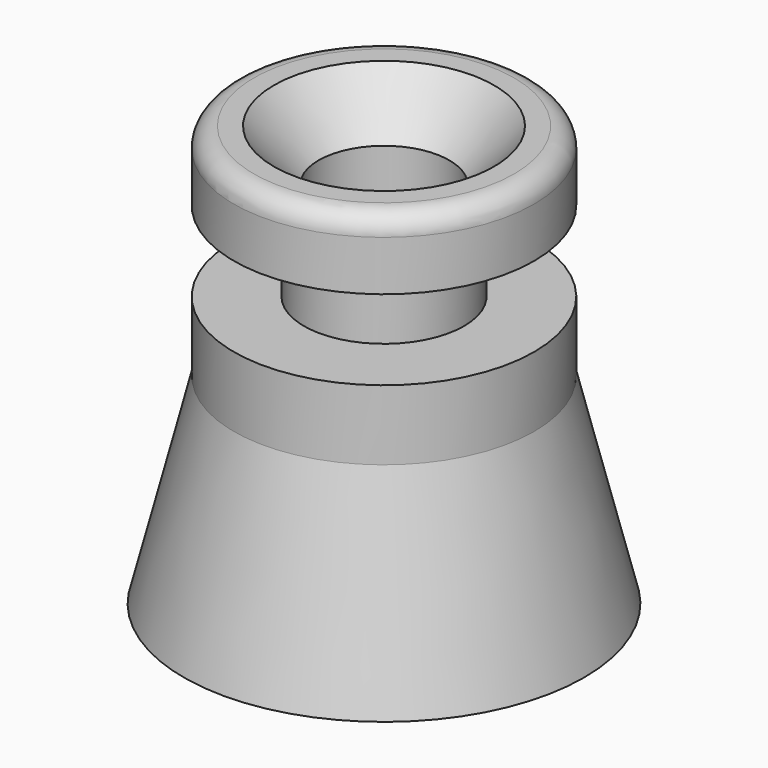
from build123d import *

# Parameters (mm, degrees)
F1_FACE_R      = 7.5
F3_R           = 10
F6_D           = 6.5278
F6_CSINK_D     = 11
F6_CSINK_ANGLE = 82
F7_R           = 1


with BuildPart() as f1:
    # F0 (on Front) → F1 (revolve)
    with BuildSketch(Plane.XZ):
        Polygon((0, 5.5), (0, 0), (0, -5.5), (7.5, -5.5), (7.5, -2), (4, -2), (4, 0), (4, 2), (7.5, 2), (7.5, 5.5), align=None)
    revolve(axis=Axis((0, 0, 2.75), (0, 0, 1)))

    # F1_face (on face) → F4 section 0
    with BuildSketch(Plane(origin=(0, 0, -5.5), x_dir=(1, 0, 0), z_dir=(0, 0, -1))):
        Circle(F1_FACE_R)
    # F3 (on offset) → F4 section 1
    with BuildSketch(Plane(origin=(0, 0, -15.5), x_dir=(1, 0, 0), z_dir=(0, 0, -1))):
        Circle(F3_R)
    loft()

    # F6 (through all)
    with Locations(Plane.XY.offset(5.5)):
        with Locations((0, 0)):
            CounterSinkHole(F6_D / 2, F6_CSINK_D / 2, counter_sink_angle=F6_CSINK_ANGLE)

    # F7
    f7_edges = [f1.edges().sort_by_distance(p)[0] for p in [
        (-7.5, 0, 5.5),
    ]]
    fillet(f7_edges, radius=F7_R)


solid = f1.part
